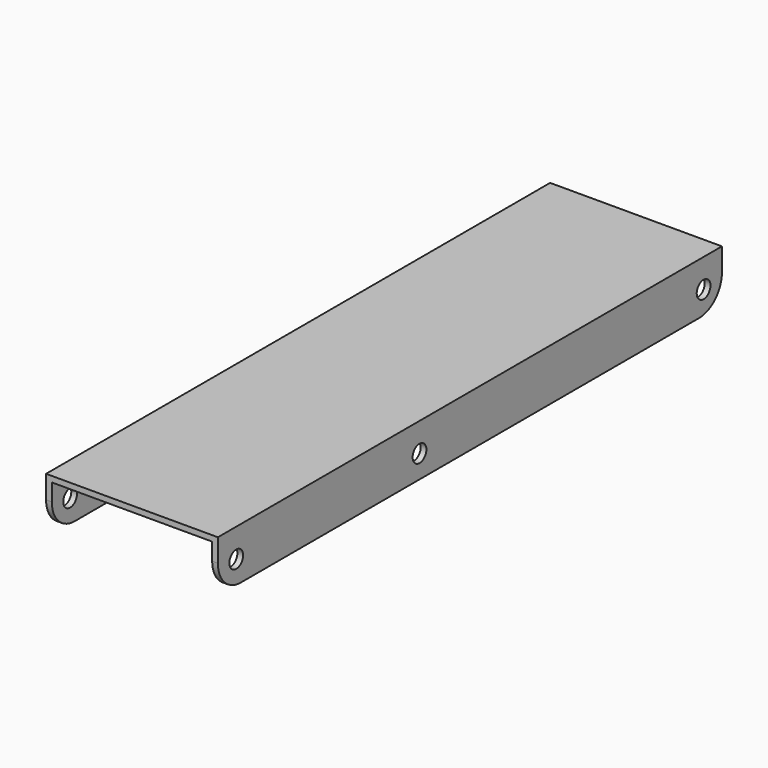
from build123d import *

# Parameters (mm, degrees)
F1_DEPTH = 110
F2_R     = 1.5
F3_DEPTH = 35
F4_R     = 5


with BuildPart() as f1:
    # F0 (on Front) → F1 (new body)
    with BuildSketch(Plane.XZ):
        Polygon((15, 0), (-15, 0), (-15, -9), (-14, -9), (-14, -1), (14, -1), (14, -9), (15, -9), align=None)
    extrude(amount=F1_DEPTH)

    # F2 (on face) → F3 (cut)
    with BuildSketch(Plane.YZ.offset(15)):
        with Locations((-106, -5)):
            Circle(F2_R)
        with Locations((-66, -5)):
            Circle(F2_R)
        with Locations((-4, -5)):
            Circle(F2_R)
    extrude(amount=-F3_DEPTH, mode=Mode.SUBTRACT)

    # F4
    f4_edges = [f1.edges().sort_by_distance(p)[0] for p in [
        (14.5, -110, -9),
        (-14.5, -110, -9),
        (14.5, 0, -9),
        (-14.5, 0, -9),
    ]]
    fillet(f4_edges, radius=F4_R)


solid = f1.part
